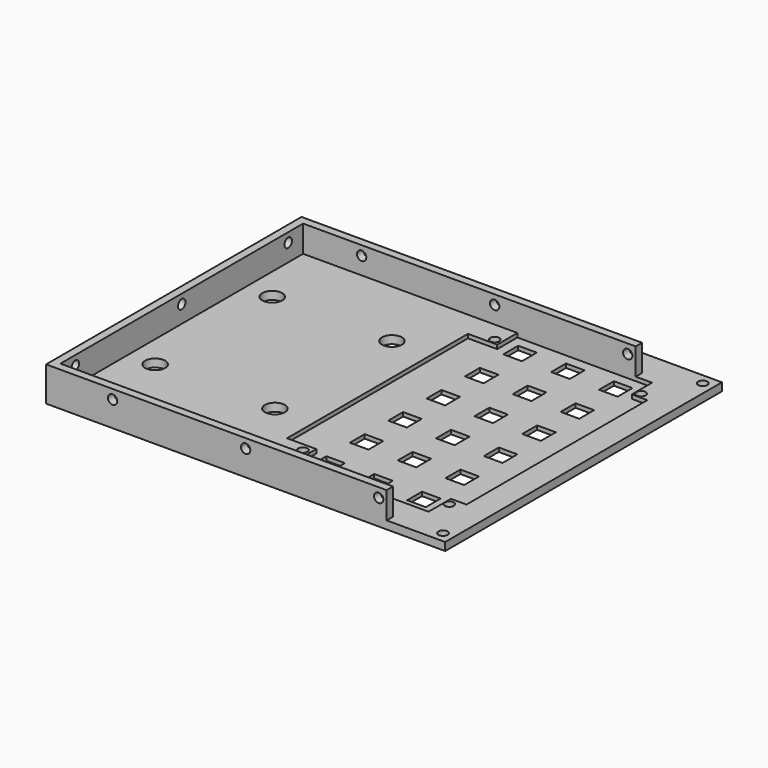
from build123d import *

# Parameters (mm, degrees)
SKETCH013_R     = 3.75
SKETCH013_R_2   = 1.75
SKETCH013_W     = 7
SKETCH013_H     = 7
PAD004_DEPTH    = 3
PAD_DEPTH       = 10
SKETCH015_R     = 1.75
POCKET005_DEPTH = 5
SKETCH004_R     = 1.75
POCKET006_DEPTH = 5
SKETCH014_R     = 1.75
POCKET007_DEPTH = 5
POCKET_DEPTH    = 2


with BuildPart() as part:
    # Sketch013 → Pad004 (new body)
    with BuildSketch(Plane.XY):
        Polygon((0, 65), (150, 65.000002), (150, -65), (0, -65), align=None)
        with Locations((13, 25)):
            Circle(SKETCH013_R, mode=Mode.SUBTRACT)
        with Locations((58, 25)):
            Circle(SKETCH013_R, mode=Mode.SUBTRACT)
        with Locations((13, -30)):
            Circle(SKETCH013_R, mode=Mode.SUBTRACT)
        with Locations((58, -30)):
            Circle(SKETCH013_R, mode=Mode.SUBTRACT)
        with Locations((146, 61.000002)):
            Circle(SKETCH013_R_2, mode=Mode.SUBTRACT)
        with Locations((146, -61)):
            Circle(SKETCH013_R_2, mode=Mode.SUBTRACT)
        with Locations((81.000022, 44.539576)):
            Circle(SKETCH013_R_2, mode=Mode.SUBTRACT)
        with Locations((136, 44.539576)):
            Circle(SKETCH013_R_2, mode=Mode.SUBTRACT)
        with Locations((80.901087, -45.46037)):
            Circle(SKETCH013_R_2, mode=Mode.SUBTRACT)
        with Locations((135.901066, -45.46037)):
            Circle(SKETCH013_R_2, mode=Mode.SUBTRACT)
        with Locations((90.500022, 44.539576)):
            Rectangle(SKETCH013_W, SKETCH013_H, mode=Mode.SUBTRACT)
        with Locations((108.500011, 44.519789)):
            Rectangle(SKETCH013_W, SKETCH013_H, mode=Mode.SUBTRACT)
        with Locations((126.5, 44.500002)):
            Rectangle(SKETCH013_W, SKETCH013_H, mode=Mode.SUBTRACT)
        with Locations((90.480235, 26.539587)):
            Rectangle(SKETCH013_W, SKETCH013_H, mode=Mode.SUBTRACT)
        with Locations((108.480224, 26.5198)):
            Rectangle(SKETCH013_W, SKETCH013_H, mode=Mode.SUBTRACT)
        with Locations((126.480213, 26.500013)):
            Rectangle(SKETCH013_W, SKETCH013_H, mode=Mode.SUBTRACT)
        with Locations((90.460448, 8.539598)):
            Rectangle(SKETCH013_W, SKETCH013_H, mode=Mode.SUBTRACT)
        with Locations((108.460437, 8.519811)):
            Rectangle(SKETCH013_W, SKETCH013_H, mode=Mode.SUBTRACT)
        with Locations((126.460426, 8.500024)):
            Rectangle(SKETCH013_W, SKETCH013_H, mode=Mode.SUBTRACT)
        with Locations((90.440661, -9.460392)):
            Rectangle(SKETCH013_W, SKETCH013_H, mode=Mode.SUBTRACT)
        with Locations((108.44065, -9.480178)):
            Rectangle(SKETCH013_W, SKETCH013_H, mode=Mode.SUBTRACT)
        with Locations((126.440639, -9.499965)):
            Rectangle(SKETCH013_W, SKETCH013_H, mode=Mode.SUBTRACT)
        with Locations((90.420874, -27.460381)):
            Rectangle(SKETCH013_W, SKETCH013_H, mode=Mode.SUBTRACT)
        with Locations((108.420863, -27.480168)):
            Rectangle(SKETCH013_W, SKETCH013_H, mode=Mode.SUBTRACT)
        with Locations((126.420852, -27.499954)):
            Rectangle(SKETCH013_W, SKETCH013_H, mode=Mode.SUBTRACT)
        with Locations((90.401087, -45.46037)):
            Rectangle(SKETCH013_W, SKETCH013_H, mode=Mode.SUBTRACT)
        with Locations((108.401076, -45.480157)):
            Rectangle(SKETCH013_W, SKETCH013_H, mode=Mode.SUBTRACT)
        with Locations((126.401066, -45.499944)):
            Rectangle(SKETCH013_W, SKETCH013_H, mode=Mode.SUBTRACT)
    extrude(amount=PAD004_DEPTH)

    # Sketch001 (on DatumPlane) → Pad (join)
    with BuildSketch(Plane.XY.offset(3)):
        Polygon((0, 55), (3, 55), (128, 55), (128, 52), (3, 52), (3, -62), (128, -62), (128, -65), (3, -65), (0, -65), align=None)
    extrude(amount=PAD_DEPTH)

    # Sketch015 → Pocket005 (cut)
    with BuildSketch(Plane.XZ.offset(65)):
        with Locations((25, 9.5)):
            Circle(SKETCH015_R)
        with Locations((75, 9.5)):
            Circle(SKETCH015_R)
        with Locations((125, 9.5)):
            Circle(SKETCH015_R)
    extrude(amount=-POCKET005_DEPTH, mode=Mode.SUBTRACT)

    # Sketch004 (on DatumPlane) → Pocket006 (cut, symmetric)
    with BuildSketch(Plane.XZ.offset(-55)):
        with Locations((25, 9.5)):
            Circle(SKETCH004_R)
        with Locations((75, 9.5)):
            Circle(SKETCH004_R)
        with Locations((125, 9.5)):
            Circle(SKETCH004_R)
    extrude(amount=POCKET006_DEPTH, both=True, mode=Mode.SUBTRACT)

    # Sketch014 → Pocket007 (cut)
    with BuildSketch(Plane.YZ):
        with Locations((45, 9.5)):
            Circle(SKETCH014_R)
        with Locations((-5, 9.5)):
            Circle(SKETCH014_R)
        with Locations((-55, 9.5)):
            Circle(SKETCH014_R)
    extrude(amount=POCKET007_DEPTH, mode=Mode.SUBTRACT)

    # Sketch → Pocket (cut)
    with BuildSketch(Plane.XY.offset(3.5)):
        Polygon((83.55, 52), (134.15, 52), (134.15, 42.5), (140, 42.5), (140, -42.5), (134.15, -42.5), (134.15, -53), (83.55, -53), (83.55, -42.5), (72.55, -42.5), (72.55, 42.5), (83.55, 42.5), align=None)
    extrude(amount=-POCKET_DEPTH, mode=Mode.SUBTRACT)


solid = part.part
